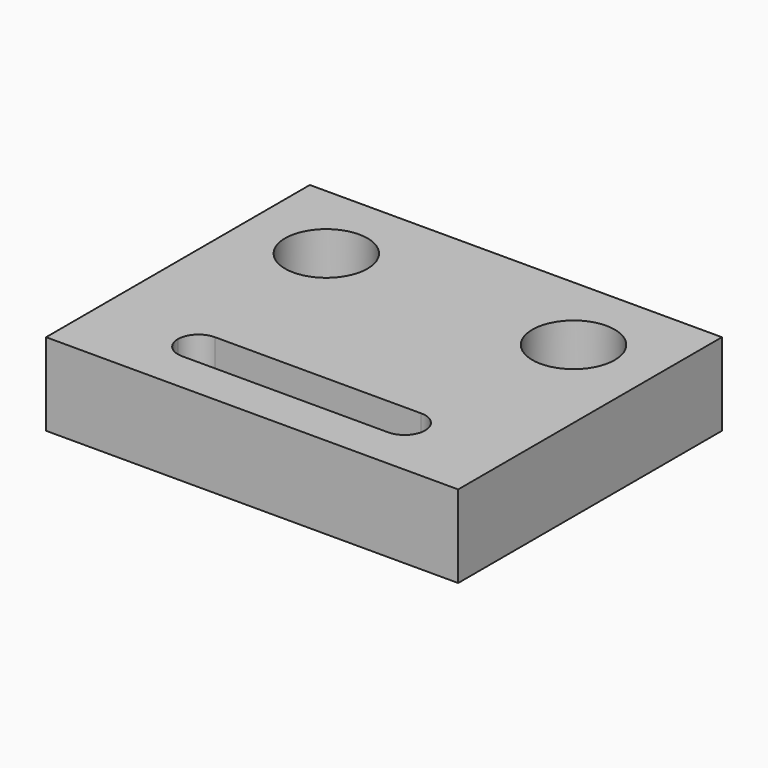
from build123d import *

# Parameters (mm, degrees)
F0_W     = 127
F0_H     = 101.6
F0_R     = 12.7
F1_DEPTH = 25.4


with BuildPart() as f1:
    # F0 (on Top) → F1 (new body)
    with BuildSketch(Plane.XY):
        with Locations((63.5, -50.8)):
            Rectangle(F0_W, F0_H)
        with BuildLine():
            ThreePointArc((25.4, -82.55), (27.259872, -78.059872), (31.75, -76.2))
            Line((31.75, -76.2), (95.25, -76.2))
            ThreePointArc((95.25, -76.2), (99.740128, -78.059872), (101.6, -82.55))
            ThreePointArc((101.6, -82.55), (99.740128, -87.040128), (95.25, -88.9))
            Line((95.25, -88.9), (31.75, -88.9))
            ThreePointArc((31.75, -88.9), (27.259872, -87.040128), (25.4, -82.55))
        make_face(mode=Mode.SUBTRACT)
        with Locations((25.4, -25.4)):
            Circle(F0_R, mode=Mode.SUBTRACT)
        with Locations((101.6, -25.4)):
            Circle(F0_R, mode=Mode.SUBTRACT)
    extrude(amount=F1_DEPTH)


solid = f1.part
